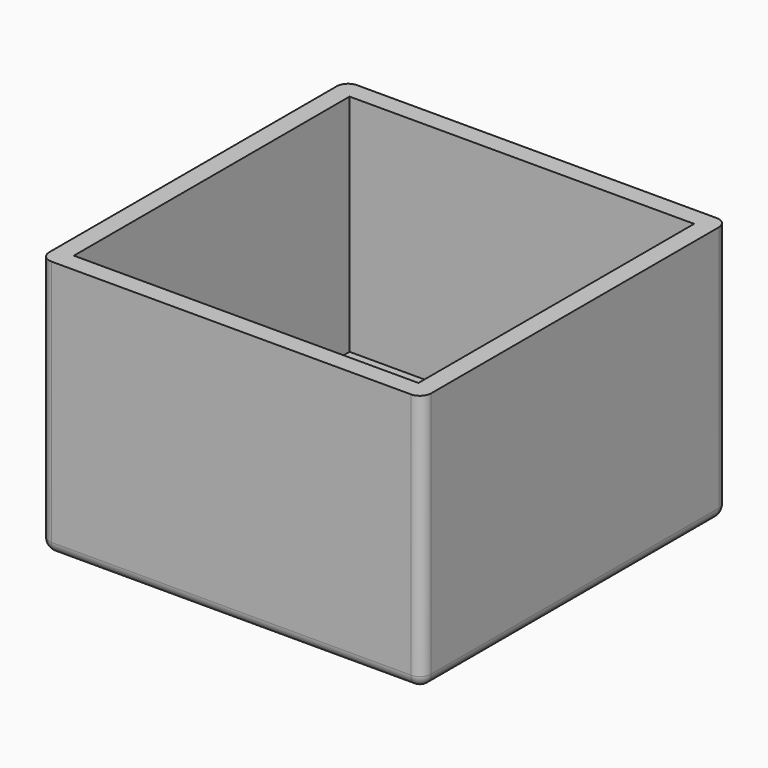
from build123d import *

# Parameters (mm, degrees)
F0_W     = 34
F0_H     = 34
F0_W_2   = 30.67
F0_H_2   = 30.67
F0_R     = 14.3
F0_R_2   = 12.8
F1_DEPTH = 3
F2_DEPTH = 20
F3_R     = 1


with BuildPart() as f1:
    # F0 (on Top) → F1 (new body)
    with BuildSketch(Plane.XY):
        Rectangle(F0_W, F0_H)
        Rectangle(F0_W_2, F0_H_2, mode=Mode.SUBTRACT)
        Rectangle(F0_W_2, F0_H_2)
        Circle(F0_R, mode=Mode.SUBTRACT)
        Circle(F0_R)
        Circle(F0_R_2, mode=Mode.SUBTRACT)
    extrude(amount=-F1_DEPTH)

    # F0 (on Top) → F2 (join)
    with BuildSketch(Plane.XY):
        Rectangle(F0_W, F0_H)
        Rectangle(F0_W_2, F0_H_2, mode=Mode.SUBTRACT)
    extrude(amount=F2_DEPTH)

    # F3
    f3_edges = [f1.edges().sort_by_distance(p)[0] for p in [
        (17, 0, -3),
        (0, 17, -3),
        (-17, 0, -3),
        (0, -17, -3),
        (17, -17, 8.5),
        (17, 17, 8.5),
        (-17, 17, 8.5),
        (-17, -17, 8.5),
    ]]
    fillet(f3_edges, radius=F3_R)


solid = f1.part
